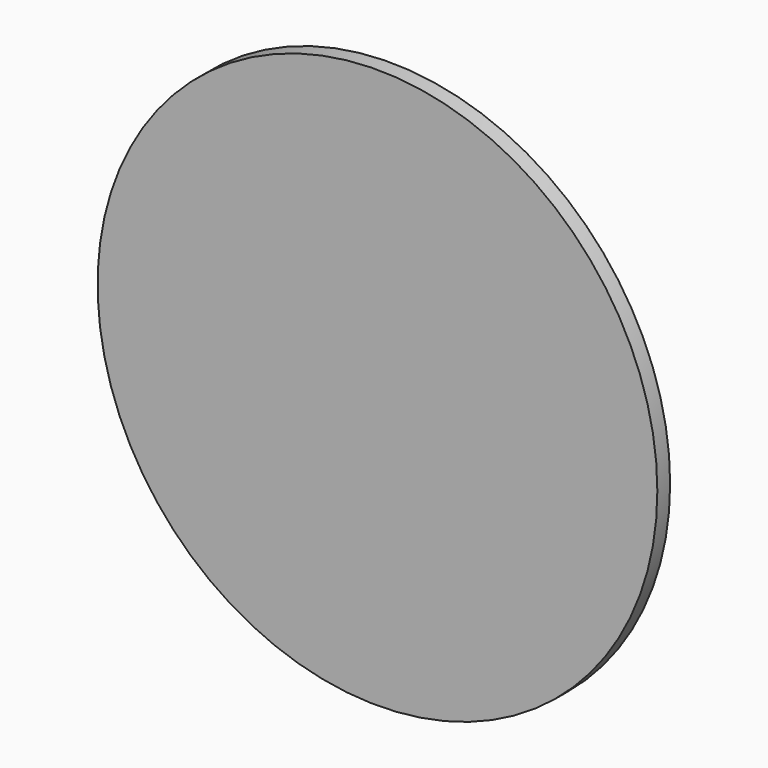
from build123d import *

# Parameters (mm, degrees)
F3_R     = 35
F4_DEPTH = 2


with BuildPart() as f4:
    # F3 (on offset) → F4 (new body)
    with BuildSketch(Plane.XZ.offset(60)):
        Circle(F3_R)
    extrude(amount=F4_DEPTH)


solid = f4.part
